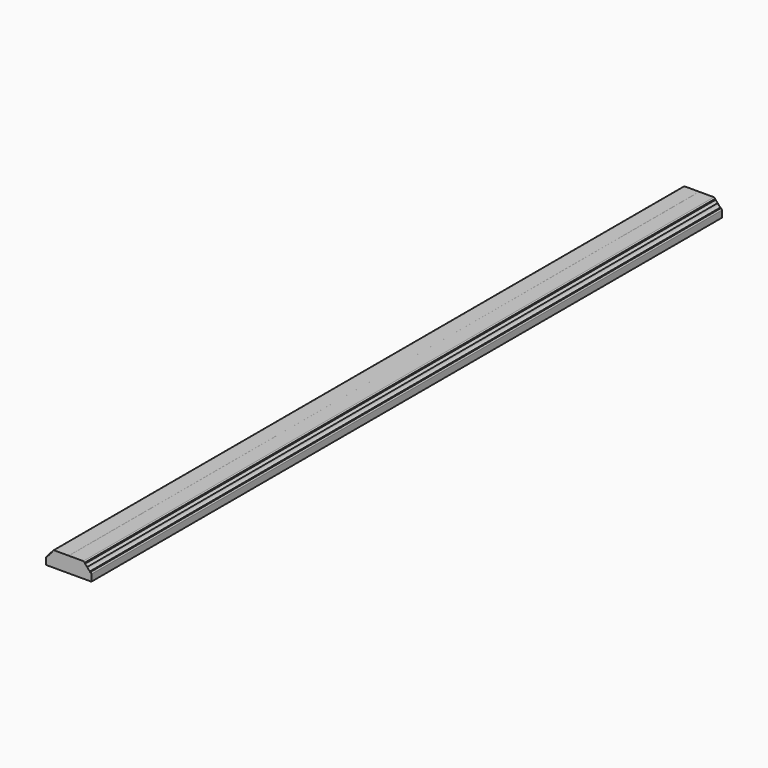
from build123d import *

# Parameters (mm, degrees)
F1_DEPTH = 2438.4
F3_DEPTH = 2438.4


with BuildPart() as f1:
    # F0 (on Front) → F1 (new body)
    with BuildSketch(Plane.XZ):
        with BuildLine():
            Line((-136.525, 0), (-3.175, 0))
            ThreePointArc((-3.175, 0), (-0.929936, 0.929936), (0, 3.175))
            Line((0, 3.175), (0, 20.955))
            ThreePointArc((0, 20.955), (-0.929936, 23.200064), (-3.175, 24.13))
            Line((-3.175, 24.13), (-4.318, 24.13))
            Line((-4.318, 24.13), (-4.318, 26.67))
            Line((-4.318, 26.67), (-4.7625, 26.67))
            ThreePointArc((-4.7625, 26.67), (-10.37516, 28.99484), (-12.7, 34.6075))
            Line((-12.7, 34.6075), (-12.7, 35.814))
            ThreePointArc((-12.7, 35.814), (-17.190128, 37.673872), (-19.05, 42.164))
            Line((-19.05, 42.164), (-19.05, 43.942))
            Line((-19.05, 43.942), (-21.43125, 43.942))
            Line((-21.43125, 43.942), (-21.43125, 44.831))
            ThreePointArc((-21.43125, 44.831), (-22.361186, 47.076064), (-24.60625, 48.006))
            Line((-24.60625, 48.006), (-115.09375, 48.006))
            ThreePointArc((-115.09375, 48.006), (-117.338814, 47.076064), (-118.26875, 44.831))
            Line((-118.26875, 44.831), (-118.26875, 43.942))
            Line((-118.26875, 43.942), (-120.65, 43.942))
            Line((-120.65, 43.942), (-120.65, 42.164))
            ThreePointArc((-120.65, 42.164), (-122.509872, 37.673872), (-127, 35.814))
            Line((-127, 35.814), (-127, 34.6075))
            ThreePointArc((-127, 34.6075), (-129.32484, 28.99484), (-134.9375, 26.67))
            Line((-134.9375, 26.67), (-135.382, 26.67))
            Line((-135.382, 26.67), (-135.382, 24.13))
            Line((-135.382, 24.13), (-136.525, 24.13))
            ThreePointArc((-136.525, 24.13), (-138.770064, 23.200064), (-139.7, 20.955))
            Line((-139.7, 20.955), (-139.7, 3.175))
            ThreePointArc((-139.7, 3.175), (-138.770064, 0.929936), (-136.525, 0))
        make_face()
    extrude(amount=-F1_DEPTH)


with BuildPart() as f3:
    # F2 (on Front) → F3 (new body, through all)
    with BuildSketch(Plane.XZ):
        with BuildLine():
            Line((-135.858312, 27.097526), (-135.858312, 24.432482))
            ThreePointArc((-135.858312, 24.432482), (-138.735896, 23.240548), (-139.92783, 20.362965))
            Line((-139.92783, 20.362965), (-139.92783, 0))
            Line((-139.92783, 0), (-69.85, 0))
            Line((-69.85, 0), (-69.85, 48.006))
            Line((-69.85, 48.006), (-113.870633, 48.003875))
            ThreePointArc((-113.870633, 48.003875), (-116.666991, 46.890935), (-117.933842, 44.160854))
            Line((-117.933842, 44.160854), (-120.201766, 44.160854))
            ThreePointArc((-120.201766, 44.160854), (-122.933718, 39.322206), (-127.624571, 36.343619))
            ThreePointArc((-127.624571, 36.343619), (-130.443802, 30.565011), (-135.858312, 27.097526))
        make_face()
        with BuildLine():
            Line((-69.85, 48.006), (-69.85, 0))
            Line((-69.85, 0), (0.22783, 0))
            Line((0.22783, 0), (0.22783, 20.362965))
            ThreePointArc((0.22783, 20.362965), (-0.964104, 23.240548), (-3.841688, 24.432482))
            Line((-3.841688, 24.432482), (-3.841688, 27.097526))
            ThreePointArc((-3.841688, 27.097526), (-9.256198, 30.565011), (-12.075429, 36.343619))
            ThreePointArc((-12.075429, 36.343619), (-16.766282, 39.322206), (-19.498234, 44.160854))
            Line((-19.498234, 44.160854), (-21.766158, 44.160854))
            ThreePointArc((-21.766158, 44.160854), (-23.033009, 46.890935), (-25.829367, 48.003875))
            Line((-25.829367, 48.003875), (-69.85, 48.006))
        make_face()
    extrude(amount=-F3_DEPTH)


solid = Compound([f1.part, f3.part])
